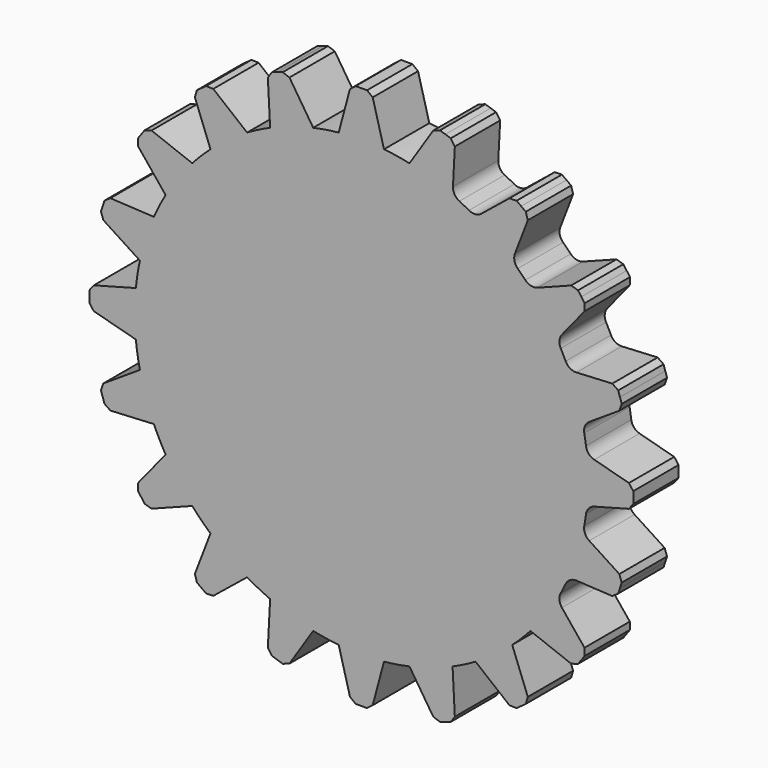
from build123d import *

# Parameters (mm, degrees)
F1_DEPTH = 12.5
F2_R     = 5
F3_SIZE  = 2
F4_R     = 5


with BuildPart() as f1:
    # F0 (on Front) → F1 (new body, symmetric)
    with BuildSketch(Plane.XZ):
        with BuildLine():
            Line((-41.361794, 112.736205), (-40.251029, 91.541546))
            ThreePointArc((-40.251029, 91.541546), (-45.39905, 89.100652), (-50.399706, 86.370537))
            Line((-50.399706, 86.370537), (-66.893654, 99.727073))
            Line((-66.893654, 99.727073), (-70.53423, 97.082039))
            Line((-70.53423, 97.082039), (-74.174807, 94.437006))
            Line((-74.174807, 94.437006), (-66.568897, 74.622932))
            ThreePointArc((-66.568897, 74.622932), (-70.710678, 70.710678), (-74.622932, 66.568897))
            Line((-74.622932, 66.568897), (-94.437006, 74.174807))
            Line((-94.437006, 74.174807), (-97.082039, 70.53423))
            Line((-97.082039, 70.53423), (-99.727073, 66.893654))
            Line((-99.727073, 66.893654), (-86.370537, 50.399706))
            ThreePointArc((-86.370537, 50.399706), (-89.100652, 45.39905), (-91.541546, 40.251029))
            Line((-91.541546, 40.251029), (-112.736205, 41.361794))
            Line((-112.736205, 41.361794), (-114.126782, 37.082039))
            Line((-114.126782, 37.082039), (-115.517358, 32.802285))
            Line((-115.517358, 32.802285), (-97.717628, 21.243005))
            ThreePointArc((-97.717628, 21.243005), (-98.768834, 15.643447), (-99.499436, 9.99311))
            Line((-99.499436, 9.99311), (-120, 4.5))
            Line((-120, 4.5), (-120, 0))
            Line((-120, 0), (-120, -4.5))
            Line((-120, -4.5), (-99.499436, -9.99311))
            ThreePointArc((-99.499436, -9.99311), (-98.768834, -15.643447), (-97.717628, -21.243005))
            Line((-97.717628, -21.243005), (-115.517358, -32.802285))
            Line((-115.517358, -32.802285), (-114.126782, -37.082039))
            Line((-114.126782, -37.082039), (-112.736205, -41.361794))
            Line((-112.736205, -41.361794), (-91.541546, -40.251029))
            ThreePointArc((-91.541546, -40.251029), (-89.100652, -45.39905), (-86.370537, -50.399706))
            Line((-86.370537, -50.399706), (-99.727073, -66.893654))
            Line((-99.727073, -66.893654), (-97.082039, -70.53423))
            Line((-97.082039, -70.53423), (-94.437006, -74.174807))
            Line((-94.437006, -74.174807), (-74.622932, -66.568897))
            ThreePointArc((-74.622932, -66.568897), (-70.710678, -70.710678), (-66.568897, -74.622932))
            Line((-66.568897, -74.622932), (-74.174807, -94.437006))
            Line((-74.174807, -94.437006), (-70.53423, -97.082039))
            Line((-70.53423, -97.082039), (-66.893654, -99.727073))
            Line((-66.893654, -99.727073), (-50.399706, -86.370537))
            ThreePointArc((-50.399706, -86.370537), (-45.39905, -89.100652), (-40.251029, -91.541546))
            Line((-40.251029, -91.541546), (-41.361794, -112.736205))
            Line((-41.361794, -112.736205), (-37.082039, -114.126782))
            Line((-37.082039, -114.126782), (-32.802285, -115.517358))
            Line((-32.802285, -115.517358), (-21.243005, -97.717628))
            ThreePointArc((-21.243005, -97.717628), (-15.643447, -98.768834), (-9.99311, -99.499436))
            Line((-9.99311, -99.499436), (-4.5, -120))
            Line((-4.5, -120), (0, -120))
            Line((0, -120), (4.5, -120))
            Line((4.5, -120), (9.99311, -99.499436))
            ThreePointArc((9.99311, -99.499436), (15.643447, -98.768834), (21.243005, -97.717628))
            Line((21.243005, -97.717628), (32.802285, -115.517358))
            Line((32.802285, -115.517358), (37.082039, -114.126782))
            Line((37.082039, -114.126782), (41.361794, -112.736205))
            Line((41.361794, -112.736205), (40.251029, -91.541546))
            ThreePointArc((40.251029, -91.541546), (45.39905, -89.100652), (50.399706, -86.370537))
            Line((50.399706, -86.370537), (66.893654, -99.727073))
            Line((66.893654, -99.727073), (70.53423, -97.082039))
            Line((70.53423, -97.082039), (74.174807, -94.437006))
            Line((74.174807, -94.437006), (66.568897, -74.622932))
            ThreePointArc((66.568897, -74.622932), (70.710678, -70.710678), (74.622932, -66.568897))
            Line((74.622932, -66.568897), (94.437006, -74.174807))
            Line((94.437006, -74.174807), (97.082039, -70.53423))
            Line((97.082039, -70.53423), (99.727073, -66.893654))
            Line((99.727073, -66.893654), (86.370537, -50.399706))
            ThreePointArc((86.370537, -50.399706), (89.100652, -45.39905), (91.541546, -40.251029))
            Line((91.541546, -40.251029), (112.736205, -41.361794))
            Line((112.736205, -41.361794), (114.126782, -37.082039))
            Line((114.126782, -37.082039), (115.517358, -32.802285))
            Line((115.517358, -32.802285), (97.717628, -21.243005))
            ThreePointArc((97.717628, -21.243005), (98.768834, -15.643447), (99.499436, -9.99311))
            Line((99.499436, -9.99311), (120, -4.5))
            Line((120, -4.5), (120, 0))
            Line((120, 0), (120, 4.5))
            Line((120, 4.5), (99.499436, 9.99311))
            ThreePointArc((99.499436, 9.99311), (98.768834, 15.643447), (97.717628, 21.243005))
            Line((97.717628, 21.243005), (115.517358, 32.802285))
            Line((115.517358, 32.802285), (114.126782, 37.082039))
            Line((114.126782, 37.082039), (112.736205, 41.361794))
            Line((112.736205, 41.361794), (91.541546, 40.251029))
            ThreePointArc((91.541546, 40.251029), (89.100652, 45.39905), (86.370537, 50.399706))
            Line((86.370537, 50.399706), (99.727073, 66.893654))
            Line((99.727073, 66.893654), (97.082039, 70.53423))
            Line((97.082039, 70.53423), (94.437006, 74.174807))
            Line((94.437006, 74.174807), (74.622932, 66.568897))
            ThreePointArc((74.622932, 66.568897), (70.710678, 70.710678), (66.568897, 74.622932))
            Line((66.568897, 74.622932), (74.174807, 94.437006))
            Line((74.174807, 94.437006), (70.53423, 97.082039))
            Line((70.53423, 97.082039), (66.893654, 99.727073))
            Line((66.893654, 99.727073), (50.399706, 86.370537))
            ThreePointArc((50.399706, 86.370537), (45.39905, 89.100652), (40.251029, 91.541546))
            Line((40.251029, 91.541546), (41.361794, 112.736205))
            Line((41.361794, 112.736205), (37.082039, 114.126782))
            Line((37.082039, 114.126782), (32.802285, 115.517358))
            Line((32.802285, 115.517358), (21.243005, 97.717628))
            ThreePointArc((21.243005, 97.717628), (15.643447, 98.768834), (9.99311, 99.499436))
            Line((9.99311, 99.499436), (4.5, 120))
            Line((4.5, 120), (0, 120))
            Line((0, 120), (-4.5, 120))
            Line((-4.5, 120), (-9.99311, 99.499436))
            ThreePointArc((-9.99311, 99.499436), (-15.643447, 98.768834), (-21.243005, 97.717628))
            Line((-21.243005, 97.717628), (-32.802285, 115.517358))
            Line((-32.802285, 115.517358), (-37.082039, 114.126782))
            Line((-37.082039, 114.126782), (-41.361794, 112.736205))
        make_face()
    extrude(amount=F1_DEPTH, both=True)

    # F2
    f2_edges = [f1.edges().sort_by_distance(p)[0] for p in [
        (40.251029, 0, 91.541546),
        (50.399706, 0, 86.370537),
    ]]
    fillet(f2_edges, radius=F2_R)

    # F3
    f3_edges = [f1.edges().sort_by_distance(p)[0] for p in [
        (-66.893654, 0, 99.727073),
        (-74.174807, 0, 94.437006),
        (-32.802285, 0, 115.517358),
        (-41.361794, 0, 112.736205),
        (4.5, 0, 120),
        (-4.5, 0, 120),
        (41.361794, 0, 112.736205),
        (32.802285, 0, 115.517358),
        (74.174807, 0, 94.437006),
        (66.893654, 0, 99.727073),
        (99.727073, 0, 66.893654),
        (94.437006, 0, 74.174807),
        (115.517358, 0, 32.802285),
        (112.736205, 0, 41.361794),
        (120, 0, -4.5),
        (120, 0, 4.5),
        (112.736205, 0, -41.361794),
        (115.517358, 0, -32.802285),
        (94.437006, 0, -74.174807),
        (99.727073, 0, -66.893654),
        (66.893654, 0, -99.727073),
        (74.174807, 0, -94.437006),
        (32.802285, 0, -115.517358),
        (41.361794, 0, -112.736205),
        (-4.5, 0, -120),
        (4.5, 0, -120),
        (-41.361794, 0, -112.736205),
        (-32.802285, 0, -115.517358),
        (-74.174807, 0, -94.437006),
        (-66.893654, 0, -99.727073),
        (-99.727073, 0, -66.893654),
        (-94.437006, 0, -74.174807),
        (-112.736205, 0, -41.361794),
        (-115.517358, 0, -32.802285),
        (-120, 0, -4.5),
        (-120, 0, 4.5),
        (-115.517358, 0, 32.802285),
        (-112.736205, 0, 41.361794),
        (-99.727073, 0, 66.893654),
        (-94.437006, 0, 74.174807),
    ]]
    chamfer(f3_edges, length=F3_SIZE)

    # F4
    f4_edges = [f1.edges().sort_by_distance(p)[0] for p in [
        (74.622932, 0, 66.568897),
        (66.568897, 0, 74.622932),
        (91.541546, 0, 40.251029),
        (86.370537, 0, 50.399706),
        (97.717628, 0, 21.243005),
        (99.499436, 0, 9.99311),
        (99.499436, 0, -9.99311),
        (97.717628, 0, -21.243005),
        (91.541546, 0, -40.251029),
        (86.370537, 0, -50.399706),
    ]]
    fillet(f4_edges, radius=F4_R)


solid = f1.part
